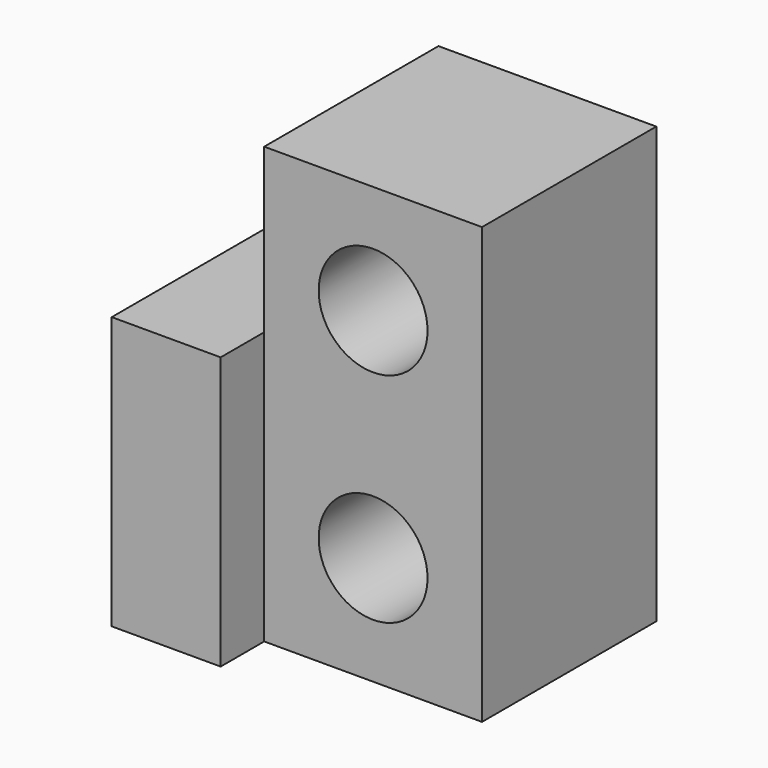
from build123d import *

# Parameters (mm, degrees)
F0_W      = 10
F0_H      = 25
F1_DEPTH  = 5
F0_R      = 5
F1_FACE_W = 10
F1_FACE_H = 25
F2_DEPTH  = 20
F3_R      = 5
F4_DEPTH  = 68.9


with BuildPart() as f1:
    # F0 (on Front) → F1 (new body)
    with BuildSketch(Plane.XZ):
        with Locations((-15, -7.5)):
            Rectangle(F0_W, F0_H)
    extrude(amount=F1_DEPTH)

    # F0 (on Front) + F1_face (on face) → F2 (join)
    with BuildSketch(Plane.XZ):
        Polygon((10, -20), (10, 20), (-10, 20), (-10, 5), (-10, -20), align=None)
        with Locations((0, -10)):
            Circle(F0_R, mode=Mode.SUBTRACT)
        with Locations((-15, -7.5)):
            Rectangle(F0_W, F0_H)
    with BuildSketch(Plane(origin=(-15, -5, -7.5), x_dir=(1, 0, 0), z_dir=(0, -1, 0))):
        Rectangle(F1_FACE_W, F1_FACE_H)
    extrude(amount=F2_DEPTH)

    # F3 (on Front) → F4 (cut)
    with BuildSketch(Plane.XZ):
        with Locations((0, 10)):
            Circle(F3_R)
    extrude(amount=F4_DEPTH, mode=Mode.SUBTRACT)


solid = f1.part
